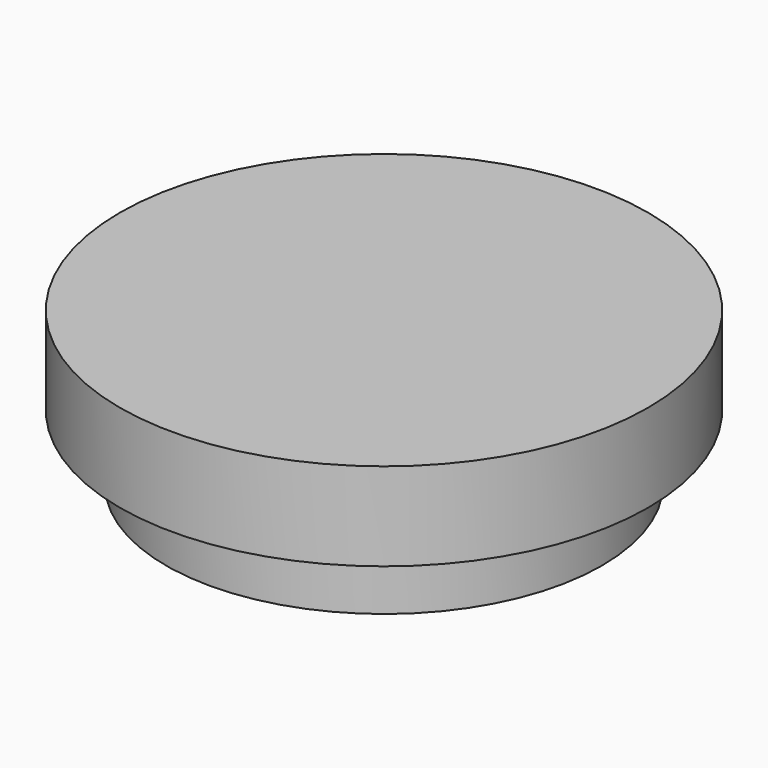
from build123d import *

# Parameters (mm, degrees)
F0_R     = 60
F1_DEPTH = 20
F2_R     = 49.5
F2_R_2   = 47.5
F3_DEPTH = 15


with BuildPart() as f1:
    # F0 (on Top) → F1 (new body)
    with BuildSketch(Plane.XY):
        Circle(F0_R)
    extrude(amount=F1_DEPTH)

    # F2 (on face) → F3 (join)
    with BuildSketch(Plane(origin=(0, 0, 0), x_dir=(1, 0, 0), z_dir=(0, 0, -1))):
        Circle(F2_R)
        Circle(F2_R_2, mode=Mode.SUBTRACT)
    extrude(amount=F3_DEPTH)


solid = f1.part
